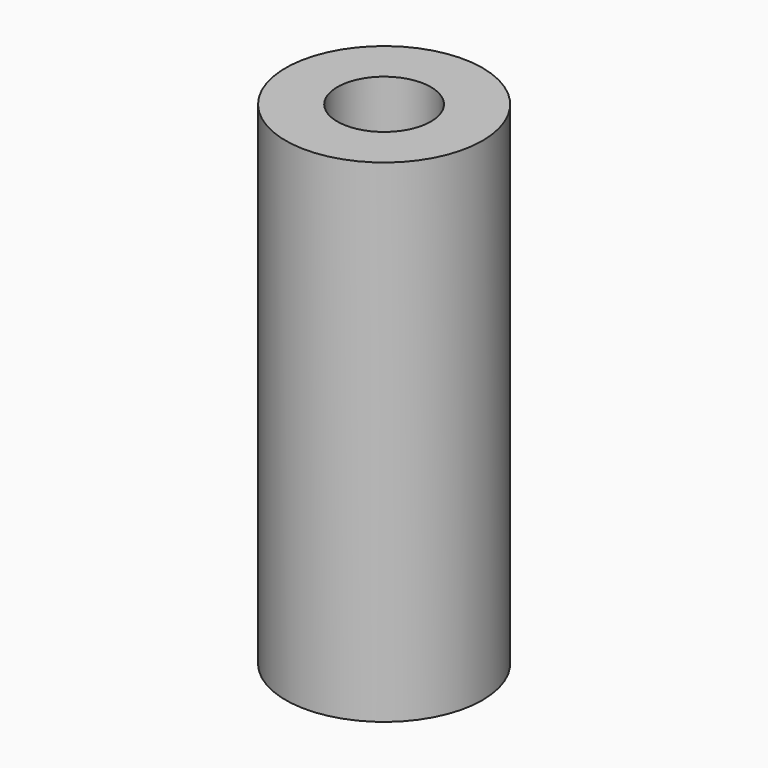
from build123d import *

# Parameters (mm, degrees)
CYLINDER003_R     = 1.9
CYLINDER003_DEPTH = 10
CYLINDER002_R     = 4
CYLINDER002_DEPTH = 20


with BuildPart() as spacerinner001:
    # Cylinder003 → Cylinder003 (new body)
    with BuildSketch(Plane(origin=(-39.5, 0, 10), x_dir=(1, 0, 0), z_dir=(0, 0, 1))):
        Circle(CYLINDER003_R)
    extrude(amount=CYLINDER003_DEPTH)


with BuildPart() as spacer001:
    # Cylinder002 → Cylinder002 (new body)
    with BuildSketch(Plane(origin=(-39.5, 0, 0), x_dir=(1, 0, 0), z_dir=(0, 0, 1))):
        Circle(CYLINDER002_R)
    extrude(amount=CYLINDER002_DEPTH)

    # Cut: cut SpacerInner001
    add(spacerinner001.part, mode=Mode.SUBTRACT)


solid = spacer001.part
